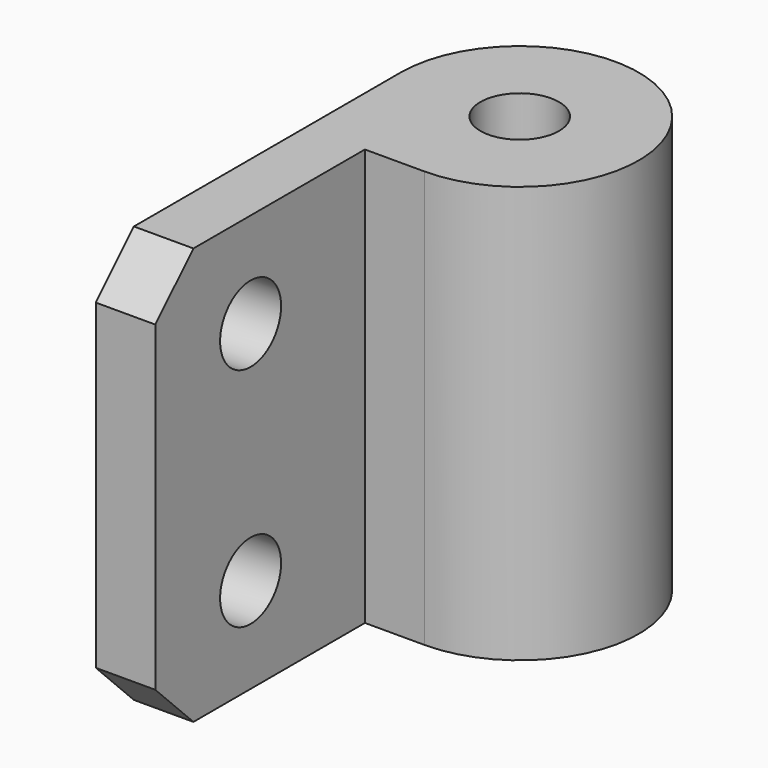
from build123d import *

# Parameters (mm, degrees)
SKETCH_R     = 1.65
PAD_DEPTH    = 17.5
SKETCH001_R  = 1.6
POCKET_DEPTH = 5
CHAMFER_SIZE = 2


with BuildPart() as part:
    # Sketch → Pad (new body)
    with BuildSketch(Plane.XY):
        with BuildLine():
            Line((0, 0), (2.5, 0))
            Line((2.5, 0), (2.5, 11))
            Line((2.5, 11), (4.999996, 11))
            ThreePointArc((4.999996, 11), (8.535546, 19.535522), (0, 16.000029))
            Line((0, 16.000029), (0, 0))
        make_face()
        with Locations((5, 16)):
            Circle(SKETCH_R, mode=Mode.SUBTRACT)
    extrude(amount=PAD_DEPTH)

    # Sketch001 → Pocket (cut)
    with BuildSketch(Plane.YZ.offset(2.5)):
        with Locations((5, 13.5)):
            Circle(SKETCH001_R)
        with Locations((5, 4)):
            Circle(SKETCH001_R)
    extrude(amount=-POCKET_DEPTH, mode=Mode.SUBTRACT)

    # Chamfer
    chamfer_edges = [part.edges().sort_by_distance(p)[0] for p in [
        (1.25, 0, 17.5),
        (1.25, 0, 0),
    ]]
    chamfer(chamfer_edges, length=CHAMFER_SIZE)


solid = part.part
